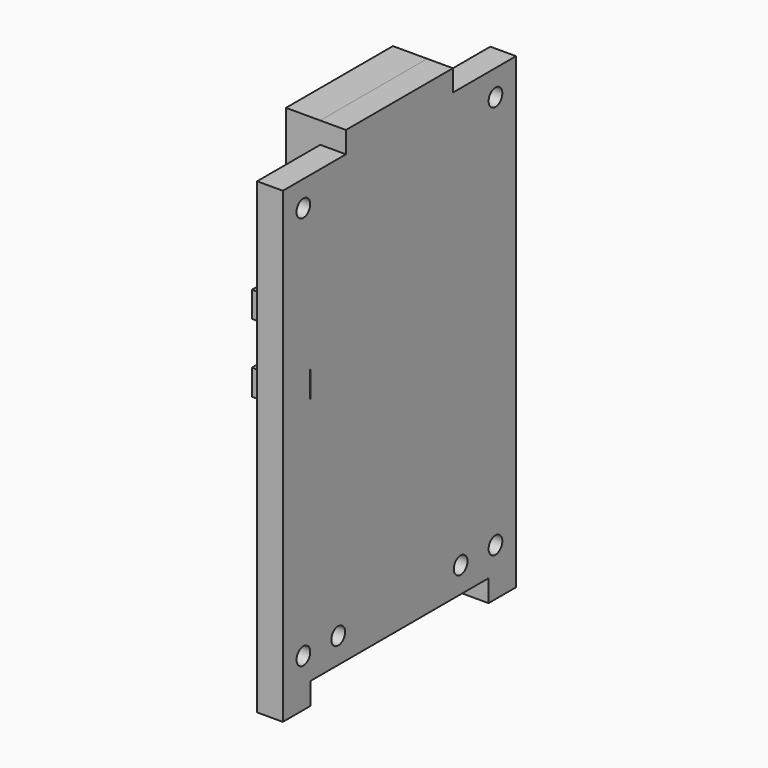
from build123d import *

# Parameters (mm, degrees)
BOX003_W                  = 2.2
BOX003_H                  = 1.5
BOX003_DEPTH              = 1.5
BOX001_W                  = 5
BOX001_H                  = 7.8
BOX001_DEPTH              = 2.5
SKETCH006_R               = 0.5
SKETCH006_W               = 1.5
SKETCH006_H               = 1.5
PAD006_DEPTH              = 1.5
FUSION002_PITCH_ANGLE     = 90
FUSION002_PLACEMENT_ANGLE = -180
BOX002_W                  = 2.2
BOX002_H                  = 1.5
BOX002_DEPTH              = 1.5


with BuildPart() as cube002:
    # Box003 → Box003 (new body)
    with BuildSketch(Plane(origin=(-16.2, -8.005, 13.3), x_dir=(1, 0, 0), z_dir=(0, 0, 1))):
        with Locations((1.1, 0.75)):
            Rectangle(BOX003_W, BOX003_H)
    extrude(amount=BOX003_DEPTH)


with BuildPart() as cube:
    # Box001 → Box001 (new body)
    with BuildSketch(Plane(origin=(-14.25, -3.9, 1), x_dir=(1, 0, 0), z_dir=(0, 0, 1))):
        with Locations((2.5, 3.9)):
            Rectangle(BOX001_W, BOX001_H)
    extrude(amount=BOX001_DEPTH)


with BuildPart() as re:
    # Sketch006 → Pad006 (new body)
    with BuildSketch(Plane.XY):
        Polygon((-13, 8.504137), (14.28215, 8.504137), (14.28215, 6.5), (13, 6.5), (13, -6.5), (14.28215, -6.5), (14.28215, -8.504137), (-13, -8.504137), (-13, -3.9), (-14.250851, -3.9), (-14.250851, 3.9), (-13, 3.9), align=None)
        with Locations((-11.5, 7.004137)):
            Circle(SKETCH006_R, mode=Mode.SUBTRACT)
        with Locations((-11.5, -7.004137)):
            Circle(SKETCH006_R, mode=Mode.SUBTRACT)
        with Locations((11.5, 7.004137)):
            Circle(SKETCH006_R, mode=Mode.SUBTRACT)
        with Locations((11.5, 4.464137)):
            Circle(SKETCH006_R, mode=Mode.SUBTRACT)
        with Locations((11.5, -7.004137)):
            Circle(SKETCH006_R, mode=Mode.SUBTRACT)
        with Locations((11.5, -4.464137)):
            Circle(SKETCH006_R, mode=Mode.SUBTRACT)
        with Locations((-6.25, 7.254137)):
            Rectangle(SKETCH006_W, SKETCH006_H, mode=Mode.SUBTRACT)
        with Locations((-2.25, 7.25)):
            Rectangle(SKETCH006_W, SKETCH006_H, mode=Mode.SUBTRACT)
    extrude(amount=PAD006_DEPTH)

    # Fusion002: union Cube
    add(cube.part)


with BuildPart() as re_1:
    # Fusion002 pitch: moved
    add(re.part.rotate(Axis((0, 0, 0), (0, 1, 0)), FUSION002_PITCH_ANGLE))


with BuildPart() as re_2:
    # Fusion002 placement: moved
    add(re_1.part.moved(Location((-14, 0, 11.8))).rotate(Axis((-14, 0, 11.8), (0, 0, 1)), FUSION002_PLACEMENT_ANGLE))


with BuildPart() as obj1:
    # Box002 → Box002 (new body)
    with BuildSketch(Plane(origin=(-16.2, -8.005, 17.3), x_dir=(1, 0, 0), z_dir=(0, 0, 1))):
        with Locations((1.1, 0.75)):
            Rectangle(BOX002_W, BOX002_H)
    extrude(amount=BOX002_DEPTH)

    # Fusion003: union Cube002, Re
    add(cube002.part)
    add(re_2.part)


with BuildPart() as obj1_1:
    # Fusion003 placement: moved
    add(obj1.part.moved(Location((-4, 0, -1))))


solid = obj1_1.part
